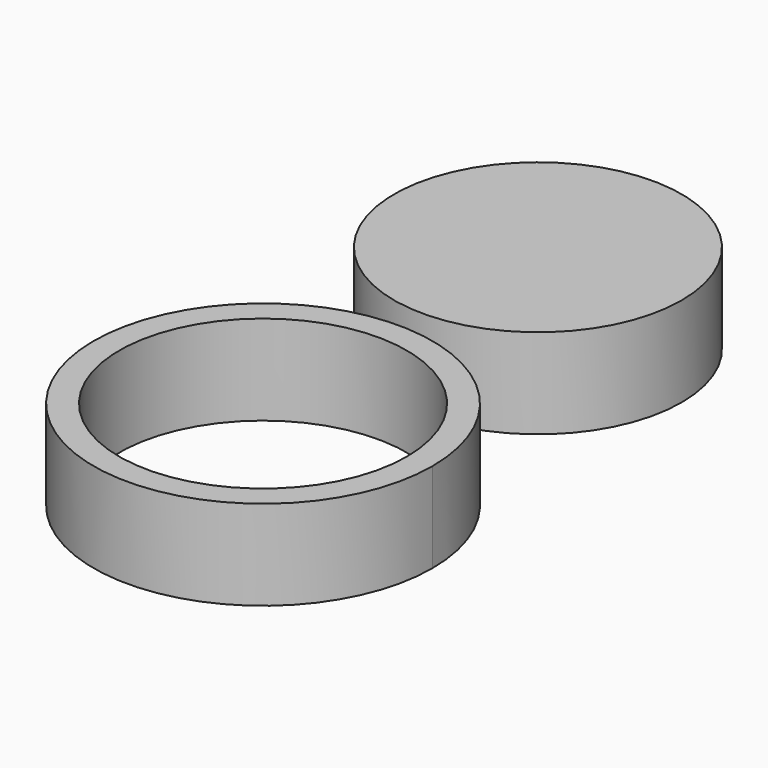
from build123d import *

# Parameters (mm, degrees)
F0_R     = 11.2
F1_DEPTH = 7


with BuildPart() as f1:
    # F0 (on Top) → F1 (new body)
    with BuildSketch(Plane.XY):
        with BuildLine():
            ThreePointArc((13.005567, -26.525662), (3.969695, -13.999687), (-10.767167, -18.622668))
            ThreePointArc((-10.767167, -18.622668), (-4.358561, -39.051636), (13.005567, -26.525662))
        make_face()
        with Locations((-0.194433, -26.525662)):
            Circle(F0_R, mode=Mode.SUBTRACT)
        Circle(F0_R)
    extrude(amount=F1_DEPTH)


solid = f1.part
